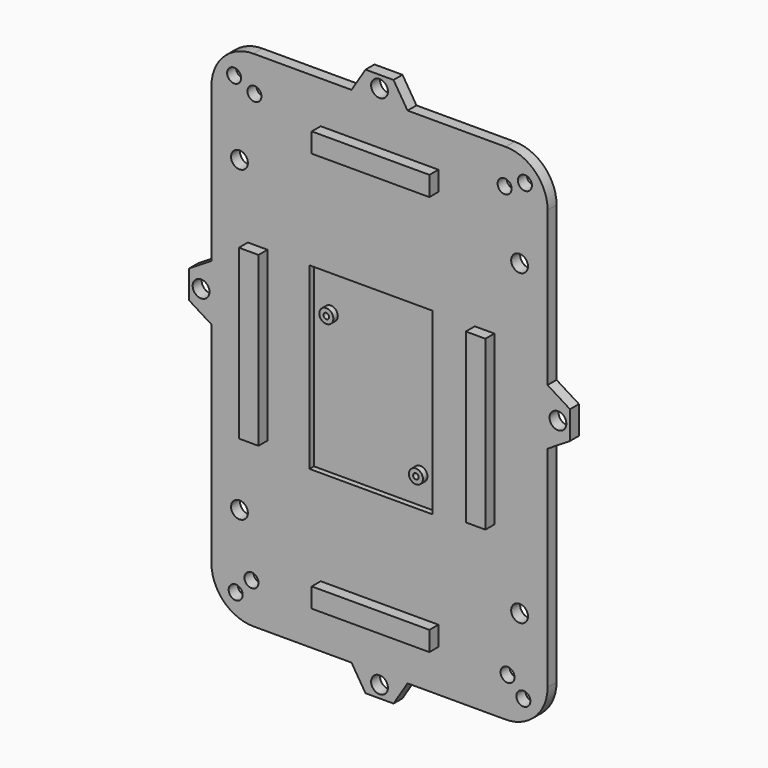
from build123d import *

# Parameters (mm, degrees)
F0_W      = 60
F0_H      = 90
F1_DEPTH  = 2
F2_W      = 22
F2_H      = 32
F3_DEPTH  = 1
F4_R      = 1.25
F5_DEPTH  = 1
F6_R      = 0.5
F7_DEPTH  = 1
F8_R      = 7.5
F9_R      = 7.5
F11_DEPTH = 2
F12_R     = 1.5
F13_DEPTH = 3
F14_W     = 3.5
F14_H     = 30
F15_DEPTH = 2
F16_W     = 21
F16_H     = 3.5
F17_DEPTH = 2
F18_W     = 21
F18_H     = 3.5
F19_DEPTH = 2
F20_R     = 1.25
F21_DEPTH = 25
F22_R     = 1.5
F23_DEPTH = 25


with BuildPart() as f1:
    # F0 (on Front) → F1 (new body)
    with BuildSketch(Plane.XZ):
        with Locations((30, 45)):
            Rectangle(F0_W, F0_H)
    extrude(amount=F1_DEPTH)

    # F2 (on face) → F3 (cut)
    with BuildSketch(Plane.XZ.offset(2)):
        with Locations((28.5, 44)):
            Rectangle(F2_W, F2_H)
    extrude(amount=-F3_DEPTH, mode=Mode.SUBTRACT)

    # F4 (on face) → F5 (join)
    with BuildSketch(Plane.XZ.offset(1)):
        with Locations((20.5, 53)):
            Circle(F4_R)
        with Locations((36.5, 33)):
            Circle(F4_R)
    extrude(amount=F5_DEPTH)

    # F6 (on face) → F7 (cut)
    with BuildSketch(Plane.XZ.offset(2)):
        with Locations((20.5, 53)):
            Circle(F6_R)
        with Locations((36.5, 33)):
            Circle(F6_R)
    extrude(amount=-F7_DEPTH, mode=Mode.SUBTRACT)

    # F8
    f8_edges = [f1.edges().sort_by_distance(p)[0] for p in [
        (60, -1, 90),
    ]]
    fillet(f8_edges, radius=F8_R)

    # F9
    f9_edges = [f1.edges().sort_by_distance(p)[0] for p in [
        (0, -1, 90),
        (0, -1, 0),
        (60, -1, 0),
    ]]
    fillet(f9_edges, radius=F9_R)

    # F10 (on face) → F11 (join)
    with BuildSketch(Plane.XZ.offset(2)):
        Polygon((0, 45), (0, 55), (-4, 52.5), (-4, 47.5), align=None)
        Polygon((64, 52.5), (60, 55), (60, 45), (64, 47.5), align=None)
        Polygon((27.5, 94), (25, 90), (35, 90), (32.5, 94), align=None)
        Polygon((35, 0), (25, 0), (27.5, -4), (32.5, -4), align=None)
    extrude(amount=-F11_DEPTH)

    # F12 (on face) → F13 (cut)
    with BuildSketch(Plane.XZ.offset(2)):
        with Locations((30, 91.85)):
            Circle(F12_R)
        with Locations((61.85, 50)):
            Circle(F12_R)
        with Locations((30, -1.85)):
            Circle(F12_R)
        with Locations((-1.85, 50)):
            Circle(F12_R)
    extrude(amount=-F13_DEPTH, mode=Mode.SUBTRACT)

    # F14 (on face) → F15 (join)
    with BuildSketch(Plane.XZ.offset(2)):
        with Locations((8.25, 45)):
            Rectangle(F14_W, F14_H)
        with Locations((48.75, 45)):
            Rectangle(F14_W, F14_H)
    extrude(amount=F15_DEPTH)

    # F16 (on face) → F17 (join)
    with BuildSketch(Plane.XZ.offset(2)):
        with Locations((30, 9.25)):
            Rectangle(F16_W, F16_H)
    extrude(amount=F17_DEPTH)

    # F18 (on face) → F19 (join)
    with BuildSketch(Plane.XZ.offset(2)):
        with Locations((30, 80.75)):
            Rectangle(F18_W, F18_H)
    extrude(amount=F19_DEPTH)

    # F20 (on face) → F21 (cut)
    with BuildSketch(Plane.XZ.offset(2)):
        with Locations((4.0452558799, 85.4404978659)):
            Circle(F20_R)
        with Locations((55.9547441201, 85.4404978659)):
            Circle(F20_R)
        with Locations((55.6786040567, 4.3146376432)):
            Circle(F20_R)
        with Locations((4.3180194842, 4.3180194851)):
            Circle(F20_R)
        with Locations((7.146446609, 7.1464466098)):
            Circle(F20_R)
        with Locations((52.8565831787, 7.1494565376)):
            Circle(F20_R)
        with Locations((52.3295245454, 83.75)):
            Circle(F20_R)
        with Locations((7.6704754546, 83.75)):
            Circle(F20_R)
    extrude(amount=-F21_DEPTH, mode=Mode.SUBTRACT)

    # F22 (on face) → F23 (cut)
    with BuildSketch(Plane.XZ.offset(2)):
        with Locations((5, 72.5)):
            Circle(F22_R)
        with Locations((5, 17.5)):
            Circle(F22_R)
        with Locations((55, 72.5)):
            Circle(F22_R)
        with Locations((55, 17.5)):
            Circle(F22_R)
    extrude(amount=-F23_DEPTH, mode=Mode.SUBTRACT)


solid = f1.part
